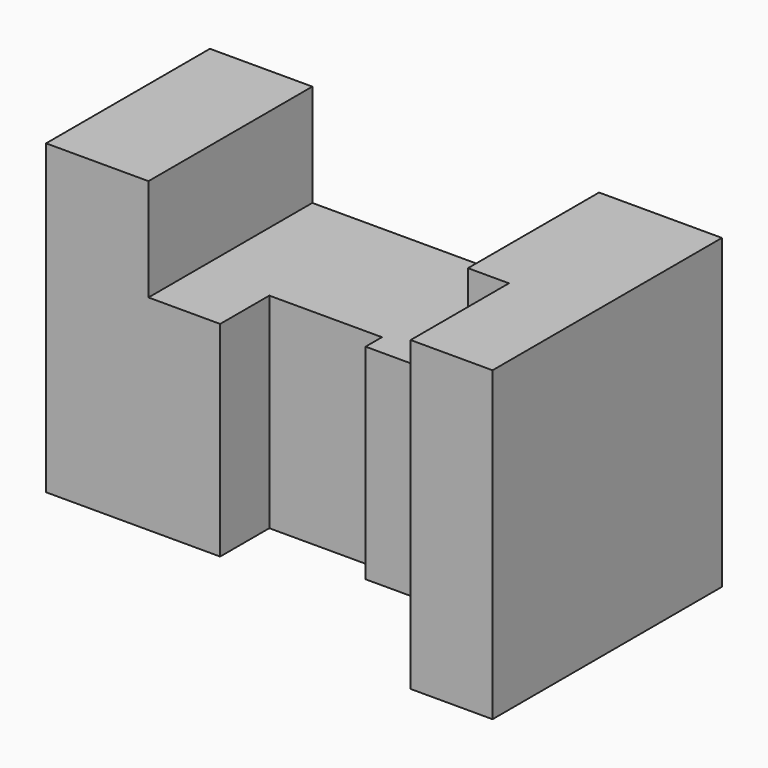
from build123d import *

# Parameters (mm, degrees)
F0_W     = 25
F0_H     = 50
F1_DEPTH = 75
F2_DEPTH = 50
F3_DEPTH = 75


with BuildPart() as f1:
    # F0 (on Top) → F1 (new body)
    with BuildSketch(Plane.XY):
        with Locations((12.5, 25)):
            Rectangle(F0_W, F0_H)
    extrude(amount=F1_DEPTH)

    # F0 (on Top) → F2 (join)
    with BuildSketch(Plane.XY):
        Polygon((25, 50), (25, 0), (42.5, 0), (42.5, 15), (70, 15), (70, 10), (95, 10), (95, 50), align=None)
    extrude(amount=F2_DEPTH)

    # F0 (on Top) → F3 (join)
    with BuildSketch(Plane.XY):
        Polygon((125, 50), (95, 50), (95, 10), (105, 10), (105, 0), (105, -20), (125, -20), align=None)
    extrude(amount=F3_DEPTH)


solid = f1.part
